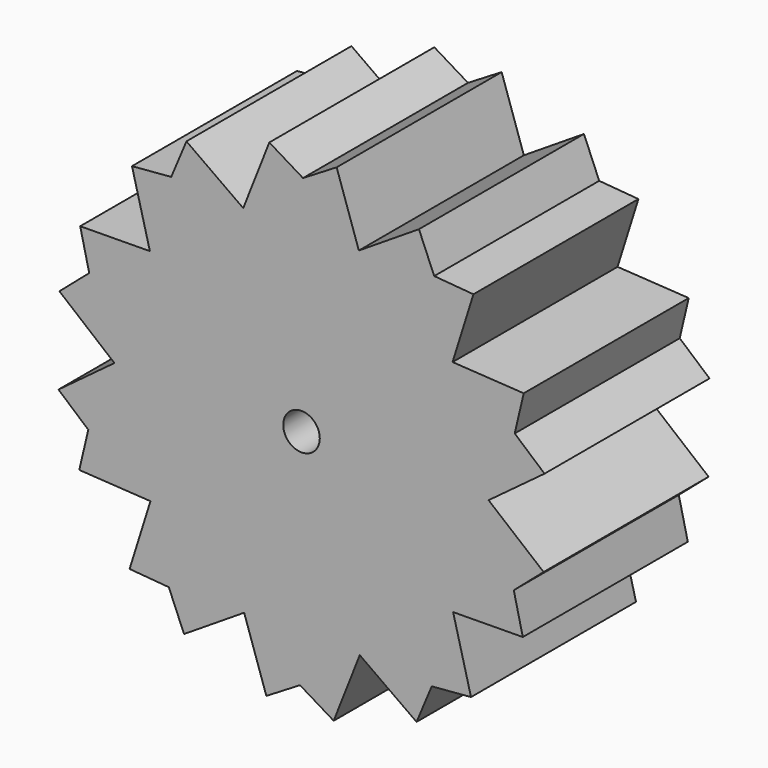
from build123d import *

# Parameters (mm, degrees)
F1_DEPTH = 19.05
F2_R     = 1.6880243077
F3_DEPTH = 19.05
F4_DEPTH = 19.05


with BuildPart() as f1:
    # F0 (on Front) → F1 (new body)
    with BuildSketch(Plane.XZ):
        with BuildLine():
            ThreePointArc((15.778162915, -1.0689673082), (15.8052876039, -0.5347895271), (15.8143326157, 0))
            ThreePointArc((15.8143326157, 0), (15.8010341981, 0.6484090916), (15.7611613108, 1.2957276769))
            ThreePointArc((15.7611613108, 1.2957276769), (15.0048006195, 4.9949048489), (13.3931251572, 8.4093587509))
            ThreePointArc((13.3931251572, 8.4093587509), (12.7269029213, 9.3871751934), (11.9894377321, 10.3124438882))
            ThreePointArc((11.9894377321, 10.3124438882), (9.2032072916, 12.8605634257), (5.8923688049, 14.6755955908))
            ThreePointArc((5.8923688049, 14.6755955908), (4.7786376097, 15.0750701051), (3.6381564457, 15.3901570413))
            ThreePointArc((3.6381564457, 15.3901570413), (-0.1136984162, 15.8139238884), (-3.8590721566, 15.3362537202))
            ThreePointArc((-3.8590721566, 15.3362537202), (-4.9949048489, 15.0048006195), (-6.1027769466, 14.5893532968))
            ThreePointArc((-6.1027769466, 14.5893532968), (-9.3871751934, 12.7269029213), (-12.1364787193, 10.1389841885))
            ThreePointArc((-12.1364787193, 10.1389841885), (-12.8605634257, 9.2032072916), (-13.512656971, 8.2159124668))
            ThreePointArc((-13.512656971, 8.2159124668), (-15.0750701051, 4.7786376097), (-15.778162915, 1.0689673082))
            ThreePointArc((-15.778162915, 1.0689673082), (-15.8139238884, -0.1136984162), (-15.7611613108, -1.2957276769))
            ThreePointArc((-15.7611613108, -1.2957276769), (-15.0048006195, -4.9949048489), (-13.3931251572, -8.4093587509))
            ThreePointArc((-13.3931251572, -8.4093587509), (-12.7269029213, -9.3871751934), (-11.9894377321, -10.3124438882))
            ThreePointArc((-11.9894377321, -10.3124438882), (-9.2032072916, -12.8605634257), (-5.8923688049, -14.6755955908))
            ThreePointArc((-5.8923688049, -14.6755955908), (-4.7786376097, -15.0750701051), (-3.6381564457, -15.3901570413))
            ThreePointArc((-3.6381564457, -15.3901570413), (0.1136984162, -15.8139238884), (3.8590721566, -15.3362537202))
            ThreePointArc((3.8590721566, -15.3362537202), (4.9949048489, -15.0048006195), (6.1027769466, -14.5893532968))
            ThreePointArc((6.1027769466, -14.5893532968), (9.3871751934, -12.7269029213), (12.1364787193, -10.1389841885))
            ThreePointArc((12.1364787193, -10.1389841885), (12.8605634257, -9.2032072916), (13.512656971, -8.2159124668))
            ThreePointArc((13.512656971, -8.2159124668), (15.0750701051, -4.7786376097), (15.778162915, -1.0689673082))
        make_face()
    extrude(amount=F1_DEPTH)

    # F2 (on face) → F3 (cut)
    with BuildSketch(Plane.XZ.offset(19.05)):
        Circle(F2_R)
    extrude(amount=-F3_DEPTH, mode=Mode.SUBTRACT)

    # F0 (on Front) → F4 (join)
    with BuildSketch(Plane.XZ):
        with BuildLine():
            ThreePointArc((15.7611613108, 1.2957276769), (15.8010341981, 0.6484090916), (15.8143326157, 0))
            ThreePointArc((15.8143326157, 0), (15.8052876039, -0.5347895271), (15.778162915, -1.0689673082))
            Line((15.778162915, -1.0689673082), (17.2791990232, 0.0449688409))
            Line((17.2791990232, 0.0449688409), (15.7611613108, 1.2957276769))
        make_face()
        with BuildLine():
            ThreePointArc((13.3931251572, 8.4093587509), (15.0048006195, 4.9949048489), (15.7611613108, 1.2957276769))
            Line((15.7611613108, 1.2957276769), (17.2791990232, 0.0449688409))
            Line((17.2791990232, 0.0449688409), (22.4461490806, 3.8794218687))
            Line((22.4461490806, 3.8794218687), (19.6925609503, 6.2533739679))
            Line((19.6925609503, 6.2533739679), (20.5248865096, 9.7924600538))
            Line((20.5248865096, 9.7924600538), (13.9527336374, 10.1928389138))
            Line((13.9527336374, 10.1928389138), (13.3931251572, 8.4093587509))
        make_face()
        with BuildLine():
            Line((17.2791990232, 0.0449688409), (15.778162915, -1.0689673082))
            ThreePointArc((15.778162915, -1.0689673082), (15.0750701051, -4.7786376097), (13.512656971, -8.2159124668))
            Line((13.512656971, -8.2159124668), (14.0055976804, -10.1200778007))
            Line((14.0055976804, -10.1200778007), (20.4395830263, -10.0549971802))
            Line((20.4395830263, -10.0549971802), (19.6072574669, -6.5159110943))
            Line((19.6072574669, -6.5159110943), (22.3608455972, -4.1419589951))
            Line((22.3608455972, -4.1419589951), (17.2791990232, 0.0449688409))
        make_face()
        with BuildLine():
            ThreePointArc((11.9894377321, 10.3124438882), (12.7269029213, 9.3871751934), (13.3931251572, 8.4093587509))
            Line((13.3931251572, 8.4093587509), (13.9527336374, 10.1928389138))
            Line((13.9527336374, 10.1928389138), (11.9894377321, 10.3124438882))
        make_face()
        with BuildLine():
            Line((14.0055976804, -10.1200778007), (13.512656971, -8.2159124668))
            ThreePointArc((13.512656971, -8.2159124668), (12.8605634257, -9.2032072916), (12.1364787193, -10.1389841885))
            Line((12.1364787193, -10.1389841885), (14.0055976804, -10.1200778007))
        make_face()
        with BuildLine():
            ThreePointArc((5.8923688049, 14.6755955908), (9.2032072916, 12.8605634257), (11.9894377321, 10.3124438882))
            Line((11.9894377321, 10.3124438882), (13.9527336374, 10.1928389138))
            Line((13.9527336374, 10.1928389138), (15.8790491026, 16.3320336204))
            Line((15.8790491026, 16.3320336204), (12.2559754761, 16.6340827186))
            Line((12.2559754761, 16.6340827186), (10.8491183906, 19.9864921956))
            Line((10.8491183906, 19.9864921956), (5.2967982382, 16.4473909634))
            Line((5.2967982382, 16.4473909634), (5.8923688049, 14.6755955908))
        make_face()
        with BuildLine():
            Line((14.0055976804, -10.1200778007), (12.1364787193, -10.1389841885))
            ThreePointArc((12.1364787193, -10.1389841885), (9.3871751934, -12.7269029213), (6.1027769466, -14.5893532968))
            Line((6.1027769466, -14.5893532968), (5.3823340565, -16.4195986913))
            Line((5.3823340565, -16.4195986913), (10.6257909718, -20.148749063))
            Line((10.6257909718, -20.148749063), (12.0326480574, -16.796339586))
            Line((12.0326480574, -16.796339586), (15.6557216838, -16.4942904878))
            Line((15.6557216838, -16.4942904878), (14.0055976804, -10.1200778007))
        make_face()
        with BuildLine():
            ThreePointArc((3.6381564457, 15.3901570413), (4.7786376097, 15.0750701051), (5.8923688049, 14.6755955908))
            Line((5.8923688049, 14.6755955908), (5.2967982382, 16.4473909634))
            Line((5.2967982382, 16.4473909634), (3.6381564457, 15.3901570413))
        make_face()
        with BuildLine():
            Line((5.3823340565, -16.4195986913), (6.1027769466, -14.5893532968))
            ThreePointArc((6.1027769466, -14.5893532968), (4.9949048489, -15.0048006195), (3.8590721566, -15.3362537202))
            Line((3.8590721566, -15.3362537202), (5.3823340565, -16.4195986913))
        make_face()
        with BuildLine():
            ThreePointArc((-3.8590721566, 15.3362537202), (-0.1136984162, 15.8139238884), (3.6381564457, 15.3901570413))
            Line((3.6381564457, 15.3901570413), (5.2967982382, 16.4473909634))
            Line((5.2967982382, 16.4473909634), (3.2466920765, 22.5463636346))
            Line((3.2466920765, 22.5463636346), (0.1380239354, 20.6611372425))
            Line((0.1380239354, 20.6611372425), (-2.9706442056, 22.5463636346))
            Line((-2.9706442056, 22.5463636346), (-5.3823340565, 16.4195986913))
            Line((-5.3823340565, 16.4195986913), (-3.8590721566, 15.3362537202))
        make_face()
        with BuildLine():
            Line((5.3823340565, -16.4195986913), (3.8590721566, -15.3362537202))
            ThreePointArc((3.8590721566, -15.3362537202), (0.1136984162, -15.8139238884), (-3.6381564457, -15.3901570413))
            Line((-3.6381564457, -15.3901570413), (-5.2967982382, -16.4473909634))
            Line((-5.2967982382, -16.4473909634), (-3.2466920765, -22.5463636346))
            Line((-3.2466920765, -22.5463636346), (-0.1380239354, -20.6611372425))
            Line((-0.1380239354, -20.6611372425), (2.9706442056, -22.5463636346))
            Line((2.9706442056, -22.5463636346), (5.3823340565, -16.4195986913))
        make_face()
        with BuildLine():
            ThreePointArc((-6.1027769466, 14.5893532968), (-4.9949048489, 15.0048006195), (-3.8590721566, 15.3362537202))
            Line((-3.8590721566, 15.3362537202), (-5.3823340565, 16.4195986913))
            Line((-5.3823340565, 16.4195986913), (-6.1027769466, 14.5893532968))
        make_face()
        with BuildLine():
            Line((-5.2967982382, -16.4473909634), (-3.6381564457, -15.3901570413))
            ThreePointArc((-3.6381564457, -15.3901570413), (-4.7786376097, -15.0750701051), (-5.8923688049, -14.6755955908))
            Line((-5.8923688049, -14.6755955908), (-5.2967982382, -16.4473909634))
        make_face()
        with BuildLine():
            ThreePointArc((-12.1364787193, 10.1389841885), (-9.3871751934, 12.7269029213), (-6.1027769466, 14.5893532968))
            Line((-6.1027769466, 14.5893532968), (-5.3823340565, 16.4195986913))
            Line((-5.3823340565, 16.4195986913), (-10.6257909718, 20.148749063))
            Line((-10.6257909718, 20.148749063), (-12.0326480574, 16.796339586))
            Line((-12.0326480574, 16.796339586), (-15.6557216838, 16.4942904878))
            Line((-15.6557216838, 16.4942904878), (-14.0055976804, 10.1200778007))
            Line((-14.0055976804, 10.1200778007), (-12.1364787193, 10.1389841885))
        make_face()
        with BuildLine():
            Line((-5.2967982382, -16.4473909634), (-5.8923688049, -14.6755955908))
            ThreePointArc((-5.8923688049, -14.6755955908), (-9.2032072916, -12.8605634257), (-11.9894377321, -10.3124438882))
            Line((-11.9894377321, -10.3124438882), (-13.9527336374, -10.1928389138))
            Line((-13.9527336374, -10.1928389138), (-15.8790491026, -16.3320336204))
            Line((-15.8790491026, -16.3320336204), (-12.2559754761, -16.6340827186))
            Line((-12.2559754761, -16.6340827186), (-10.8491183906, -19.9864921956))
            Line((-10.8491183906, -19.9864921956), (-5.2967982382, -16.4473909634))
        make_face()
        with BuildLine():
            ThreePointArc((-13.512656971, 8.2159124668), (-12.8605634257, 9.2032072916), (-12.1364787193, 10.1389841885))
            Line((-12.1364787193, 10.1389841885), (-14.0055976804, 10.1200778007))
            Line((-14.0055976804, 10.1200778007), (-13.512656971, 8.2159124668))
        make_face()
        with BuildLine():
            Line((-13.9527336374, -10.1928389138), (-11.9894377321, -10.3124438882))
            ThreePointArc((-11.9894377321, -10.3124438882), (-12.7269029213, -9.3871751934), (-13.3931251572, -8.4093587509))
            Line((-13.3931251572, -8.4093587509), (-13.9527336374, -10.1928389138))
        make_face()
        with BuildLine():
            ThreePointArc((-15.778162915, 1.0689673082), (-15.0750701051, 4.7786376097), (-13.512656971, 8.2159124668))
            Line((-13.512656971, 8.2159124668), (-14.0055976804, 10.1200778007))
            Line((-14.0055976804, 10.1200778007), (-20.4395830263, 10.0549971802))
            Line((-20.4395830263, 10.0549971802), (-19.6072574669, 6.5159110943))
            Line((-19.6072574669, 6.5159110943), (-22.3608455972, 4.1419589951))
            Line((-22.3608455972, 4.1419589951), (-17.2791990232, -0.0449688409))
            Line((-17.2791990232, -0.0449688409), (-15.778162915, 1.0689673082))
        make_face()
        with BuildLine():
            Line((-13.9527336374, -10.1928389138), (-13.3931251572, -8.4093587509))
            ThreePointArc((-13.3931251572, -8.4093587509), (-15.0048006195, -4.9949048489), (-15.7611613108, -1.2957276769))
            Line((-15.7611613108, -1.2957276769), (-17.2791990232, -0.0449688409))
            Line((-17.2791990232, -0.0449688409), (-22.4461490806, -3.8794218687))
            Line((-22.4461490806, -3.8794218687), (-19.6925609503, -6.2533739679))
            Line((-19.6925609503, -6.2533739679), (-20.5248865096, -9.7924600538))
            Line((-20.5248865096, -9.7924600538), (-13.9527336374, -10.1928389138))
        make_face()
        with BuildLine():
            ThreePointArc((-15.7611613108, -1.2957276769), (-15.8139238884, -0.1136984162), (-15.778162915, 1.0689673082))
            Line((-15.778162915, 1.0689673082), (-17.2791990232, -0.0449688409))
            Line((-17.2791990232, -0.0449688409), (-15.7611613108, -1.2957276769))
        make_face()
    extrude(amount=F4_DEPTH)


solid = f1.part
